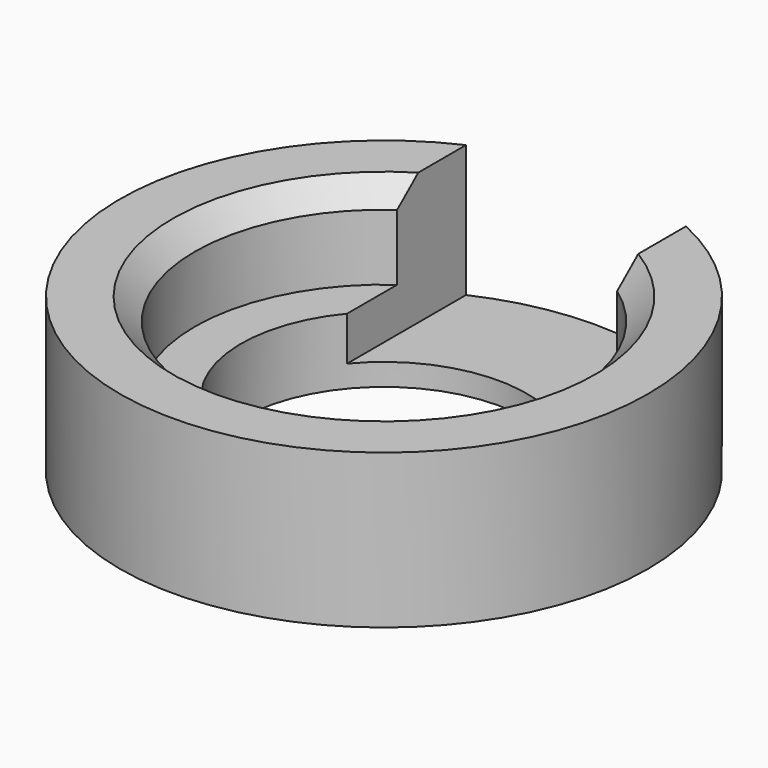
from build123d import *

# Parameters (mm, degrees)
F0_R     = 6
F0_R_2   = 3.25
F1_DEPTH = 1.5
F2_R     = 6
F2_R_2   = 4.3
F3_DEPTH = 2
F4_W     = 5
F4_H     = 3.923344
F5_DEPTH = 3
F6_SIZE  = 0.5


with BuildPart() as f1:
    # F0 (on Top) → F1 (new body)
    with BuildSketch(Plane.XY):
        Circle(F0_R)
        Circle(F0_R_2, mode=Mode.SUBTRACT)
    extrude(amount=F1_DEPTH)

    # F2 (on face) → F3 (join)
    with BuildSketch(Plane.XY.offset(1.5)):
        Circle(F2_R)
        Circle(F2_R_2, mode=Mode.SUBTRACT)
    extrude(amount=F3_DEPTH)

    # F4 (on face) → F5 (cut)
    with BuildSketch(Plane.XY.offset(3.5)):
        with Locations((0, 4.038328)):
            Rectangle(F4_W, F4_H)
    extrude(amount=-F5_DEPTH, mode=Mode.SUBTRACT)

    # F6
    f6_edges = [f1.edges().sort_by_distance(p)[0] for p in [
        (0, -4.3, 3.5),
    ]]
    chamfer(f6_edges, length=F6_SIZE)


solid = f1.part
